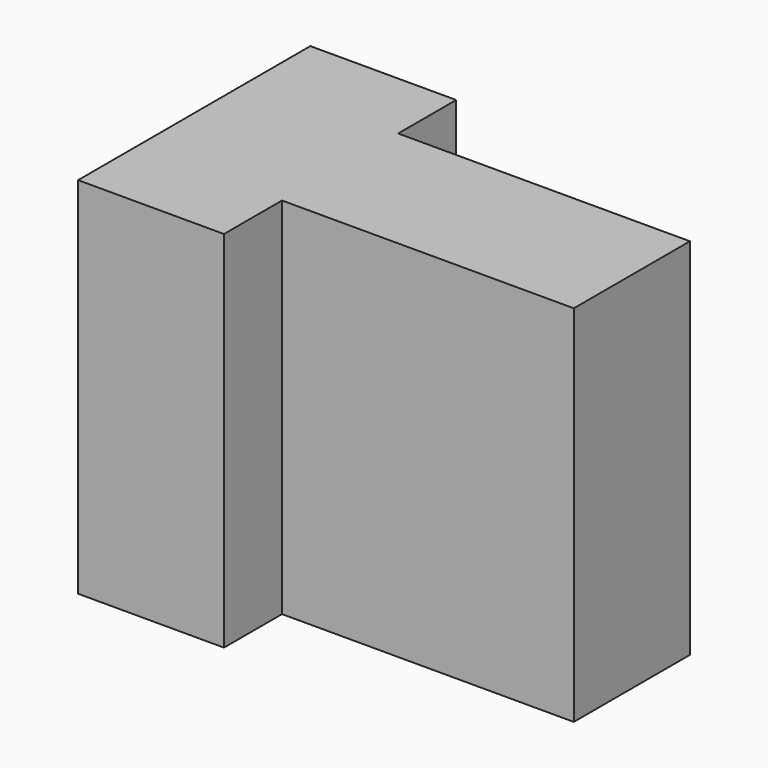
from build123d import *

# Parameters (mm, degrees)
F0_W     = 38.296241
F0_H     = 31.86328
F1_DEPTH = 25.4
F2_W     = 25.530826
F2_H     = 31.86328
F3_DEPTH = 6.35
F4_W     = 25.530827
F4_H     = 31.86328
F5_DEPTH = 6.35


with BuildPart() as f1:
    # F0 (on Front) → F1 (new body)
    with BuildSketch(Plane.XZ):
        with Locations((19.14812, 15.93164)):
            Rectangle(F0_W, F0_H)
    extrude(amount=F1_DEPTH)

    # F2 (on face) → F3 (cut)
    with BuildSketch(Plane.XZ.offset(25.4)):
        with Locations((25.530828, 15.93164)):
            Rectangle(F2_W, F2_H)
    extrude(amount=-F3_DEPTH, mode=Mode.SUBTRACT)

    # F4 (on face) → F5 (cut)
    with BuildSketch(Plane(origin=(0, 0, 0), x_dir=(-1, 0, 0), z_dir=(0, 1, 0))):
        with Locations((-25.530827, 15.93164)):
            Rectangle(F4_W, F4_H)
    extrude(amount=-F5_DEPTH, mode=Mode.SUBTRACT)


solid = f1.part
